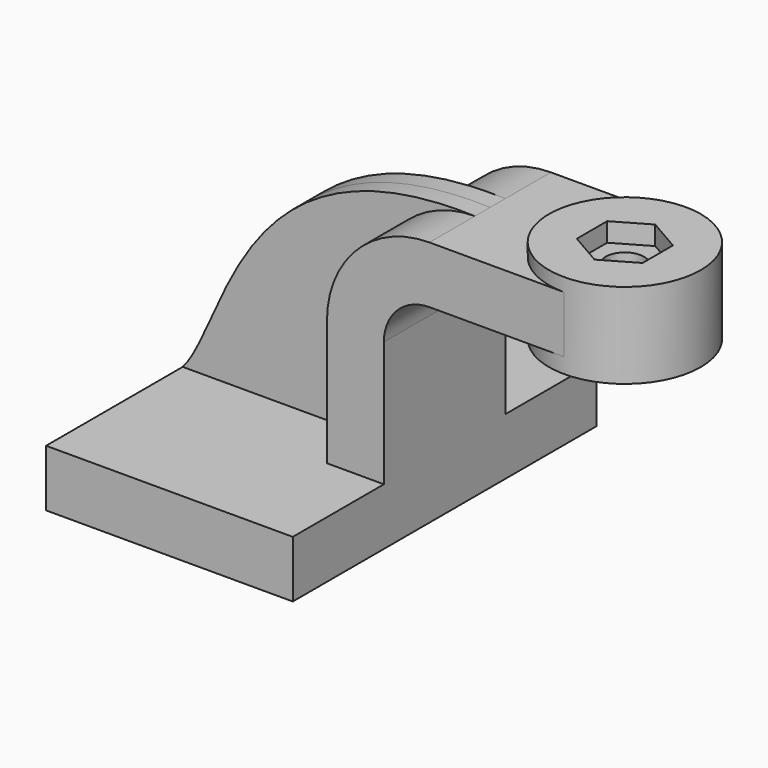
from build123d import *

# Parameters (mm, degrees)
F1_DEPTH = 63.5
F0_W     = 25.4
F0_H     = 19.05
F2_DEPTH = 25.4
F3_DEPTH = 6.35
F5_R     = 6.35
F6_DEPTH = 99.696
F7_DEPTH = 6.35


with BuildPart() as f1:
    # F0 (on Front) → F1 (new body, symmetric)
    with BuildSketch(Plane.XZ):
        Polygon((22.225, 9.525), (-41.275, 9.525), (-41.275, -9.525), (41.275, -9.525), (41.275, 9.525), align=None)
    extrude(amount=F1_DEPTH, both=True)

    # F0 (on Front) → F2 (join, symmetric)
    with BuildSketch(Plane.XZ):
        with BuildLine():
            Line((22.225, 51.435), (22.225, 9.525))
            Line((22.225, 9.525), (41.275, 9.525))
            Line((41.275, 9.525), (41.275, 51.435))
            ThreePointArc((41.275, 51.435), (45.7386926547, 62.2113073453), (56.515, 66.675))
            Line((56.515, 66.675), (76.2, 66.675))
            Line((76.2, 66.675), (76.2, 85.725))
            Line((76.2, 85.725), (56.515, 85.725))
            ThreePointArc((56.515, 85.725), (32.2683084731, 75.6816915269), (22.225, 51.435))
        make_face()
        with Locations((88.9, 76.2)):
            Rectangle(F0_W, F0_H)
    extrude(amount=F2_DEPTH, both=True)

    # F0 (on Front) → F3 (join, symmetric)
    with BuildSketch(Plane.XZ):
        with BuildLine():
            add(Edge.make_bspline(
                [(-41.275, 9.525), (-26.9147008657, 25.7702898234), (-22.6109270006, 88.3015841246), (56.515, 85.725)],
                knots=[0, 0, 0, 0, 123.9730781259, 123.9730781259, 123.9730781259, 123.9730781259], degree=3))
            Line((-41.275, 9.525), (22.225, 9.525))
            Line((22.225, 9.525), (22.225, 51.435))
            ThreePointArc((22.225, 51.435), (32.2683084731, 75.6816915269), (56.515, 85.725))
        make_face()
    extrude(amount=F3_DEPTH, both=True)

    # F0 (on Front) → F4 (revolve)
    with BuildSketch(Plane.XZ):
        Polygon((101.6, 90.17), (101.6, 85.725), (101.6, 66.675), (101.6, 61.595), (127, 61.595), (127, 90.17), align=None)
    revolve(axis=Axis((101.6, 0, 75.8825), (0, 0, 1)))

    # F5 (on face) → F6 (cut, through all)
    with BuildSketch(Plane.XY.offset(90.17)):
        with Locations((101.6, 0)):
            Circle(F5_R)
    extrude(amount=-F6_DEPTH, mode=Mode.SUBTRACT)

    # F5 (on face) → F7 (cut)
    with BuildSketch(Plane.XY.offset(90.17)):
        Polygon((112.5985226281, 6.35), (101.6, 12.7), (90.6014773719, 6.35), (90.6014773719, -6.35), (101.6, -12.7), (112.5985226281, -6.35), align=None)
        with Locations((101.6, 0)):
            Circle(F5_R, mode=Mode.SUBTRACT)
    extrude(amount=-F7_DEPTH, mode=Mode.SUBTRACT)


solid = f1.part
